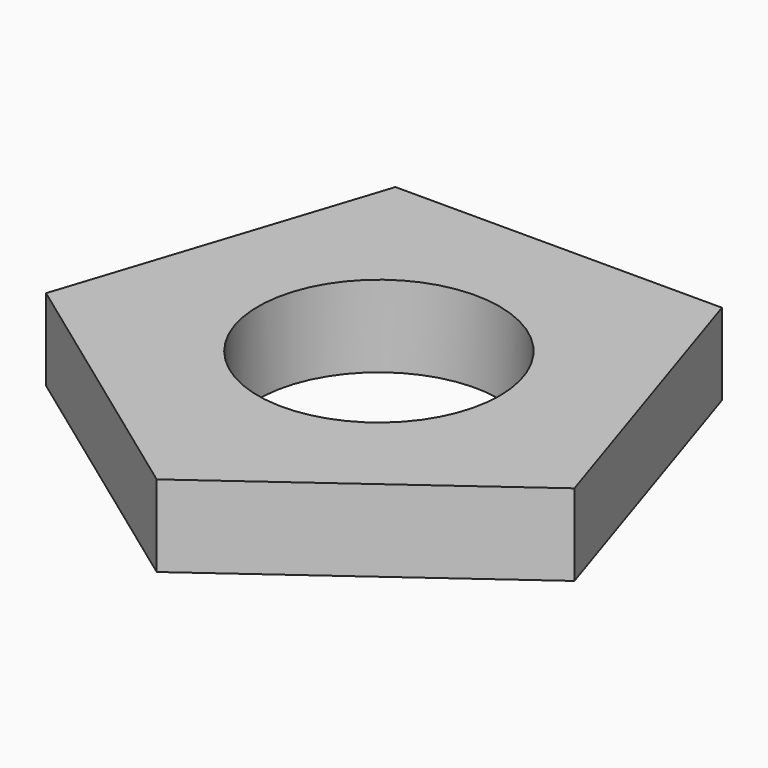
from build123d import *

# Parameters (mm, degrees)
F0_R     = 37.042737
F1_DEPTH = 25


with BuildPart() as f1:
    # F0 (on Top) → F1 (new body)
    with BuildSketch(Plane.XY):
        Polygon((-80.98783, 21.486741), (0, -37.354361), (80.98783, 21.486741), (50.053231, 116.693645), (-50.053231, 116.693645), align=None)
        with Locations((0, 47.801282)):
            Circle(F0_R, mode=Mode.SUBTRACT)
    extrude(amount=F1_DEPTH)


solid = f1.part
